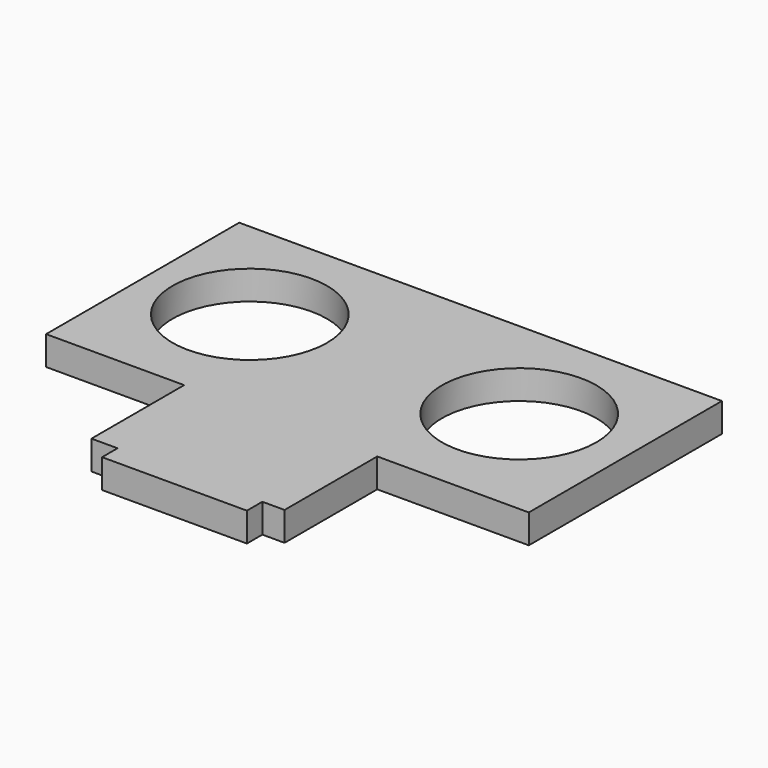
from build123d import *

# Parameters (mm, degrees)
F0_R     = 8
F0_W     = 15
F0_H     = 2
F1_DEPTH = 3


with BuildPart() as f1:
    # F0 (on Top) → F1 (new body)
    with BuildSketch(Plane.XY):
        Polygon((25.950002, 51.000001), (-24.049998, 51.000001), (-24.049998, 26.000001), (-9.75, 26.000001), (10.25, 26.000001), (25.950002, 26.000001), align=None)
        with Locations((-13.35, 39.000001)):
            Circle(F0_R, mode=Mode.SUBTRACT)
        with Locations((14.549999, 39.000001)):
            Circle(F0_R, mode=Mode.SUBTRACT)
        Polygon((10.25, 26.000001), (-9.75, 26.000001), (-9.75, 14.000001), (-7.05, 14.000001), (7.95, 14.000001), (10.25, 14.000001), align=None)
        with Locations((0.45, 13.000001)):
            Rectangle(F0_W, F0_H)
    extrude(amount=F1_DEPTH)


solid = f1.part
